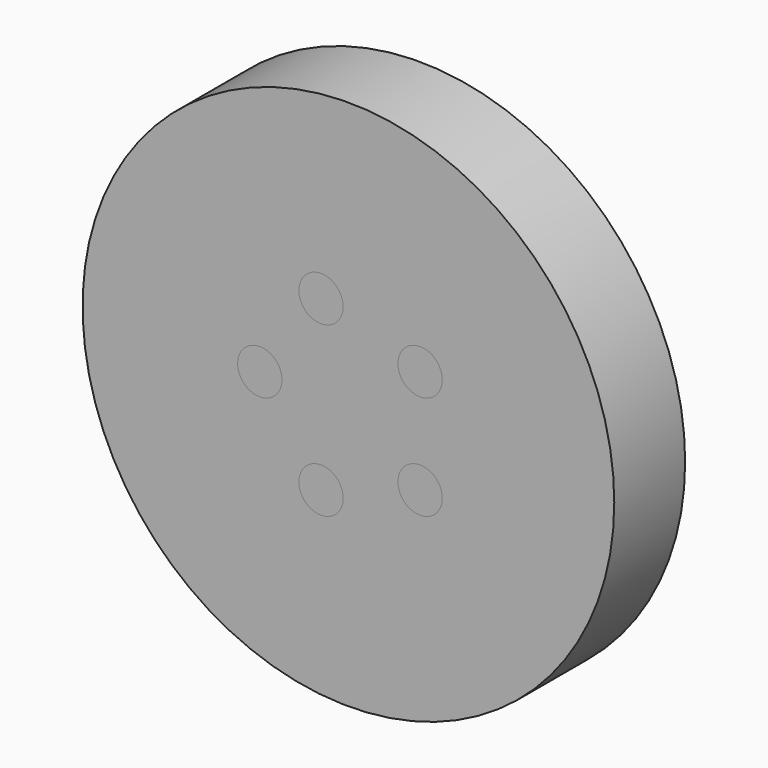
from build123d import *

# Parameters (mm, degrees)
F0_R     = 6.35
F1_DEPTH = 25.4
F0_R_2   = 76.2
F2_DEPTH = 25.4


with BuildPart() as f1:
    # F0 (on Front) → F1 (new body)
    with BuildSketch(Plane.XZ):
        with Locations((-7.849032, 24.156836)):
            Circle(F0_R)
        with Locations((-7.849032, -24.156836)):
            Circle(F0_R)
        with Locations((20.549032, 14.929745)):
            Circle(F0_R)
        with Locations((20.549032, -14.929745)):
            Circle(F0_R)
        with Locations((-25.4, 0)):
            Circle(F0_R)
    extrude(amount=F1_DEPTH)


with BuildPart() as f2:
    # F0 (on Front) → F2 (new body)
    with BuildSketch(Plane.XZ):
        Circle(F0_R_2)
        with Locations((-7.849032, -24.156836)):
            Circle(F0_R, mode=Mode.SUBTRACT)
        with Locations((20.549032, -14.929745)):
            Circle(F0_R, mode=Mode.SUBTRACT)
        with Locations((-25.4, 0)):
            Circle(F0_R, mode=Mode.SUBTRACT)
        with Locations((-7.849032, 24.156836)):
            Circle(F0_R, mode=Mode.SUBTRACT)
        with Locations((20.549032, 14.929745)):
            Circle(F0_R, mode=Mode.SUBTRACT)
    extrude(amount=F2_DEPTH)


solid = Compound([f1.part, f2.part])
